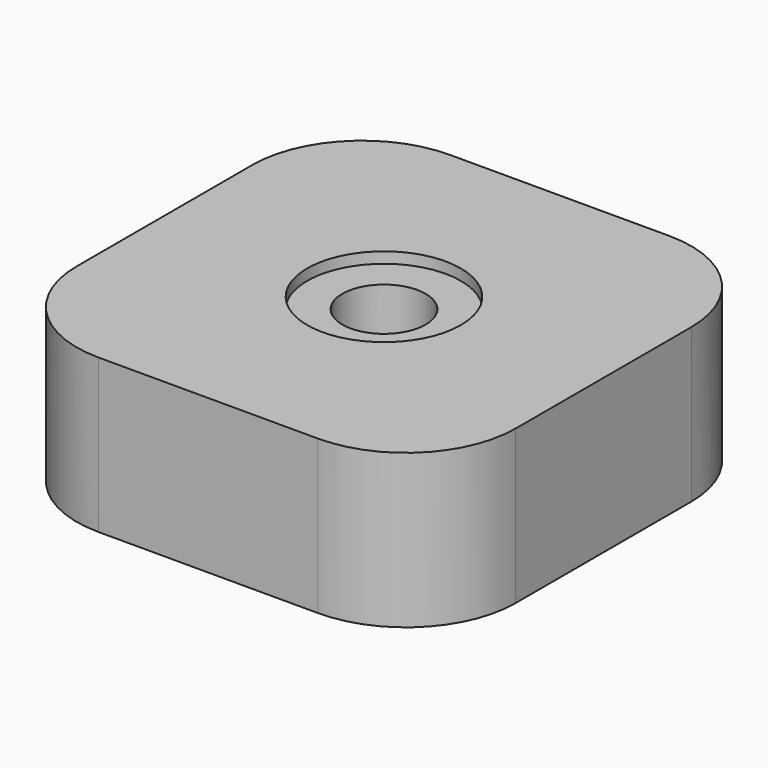
from build123d import *

# Parameters (mm, degrees)
F0_W     = 20
F0_H     = 20
F1_DEPTH = 7
F2_R     = 1.9
F3_DEPTH = 5
F4_R     = 3.5
F5_DEPTH = 0.5
F6_R     = 5


with BuildPart() as f1:
    # F0 (on Top) → F1 (new body)
    with BuildSketch(Plane.XY):
        Rectangle(F0_W, F0_H)
    extrude(amount=F1_DEPTH)

    # F2 (on face) → F3 (cut)
    with BuildSketch(Plane.XY.offset(7)):
        Circle(F2_R)
    extrude(amount=-F3_DEPTH, mode=Mode.SUBTRACT)

    # F4 (on face) → F5 (cut)
    with BuildSketch(Plane.XY.offset(7)):
        Circle(F4_R)
    extrude(amount=-F5_DEPTH, mode=Mode.SUBTRACT)

    # F6
    f6_edges = [f1.edges().sort_by_distance(p)[0] for p in [
        (-10, -10, 3.5),
        (10, -10, 3.5),
        (10, 10, 3.5),
        (-10, 10, 3.5),
    ]]
    fillet(f6_edges, radius=F6_R)


solid = f1.part
